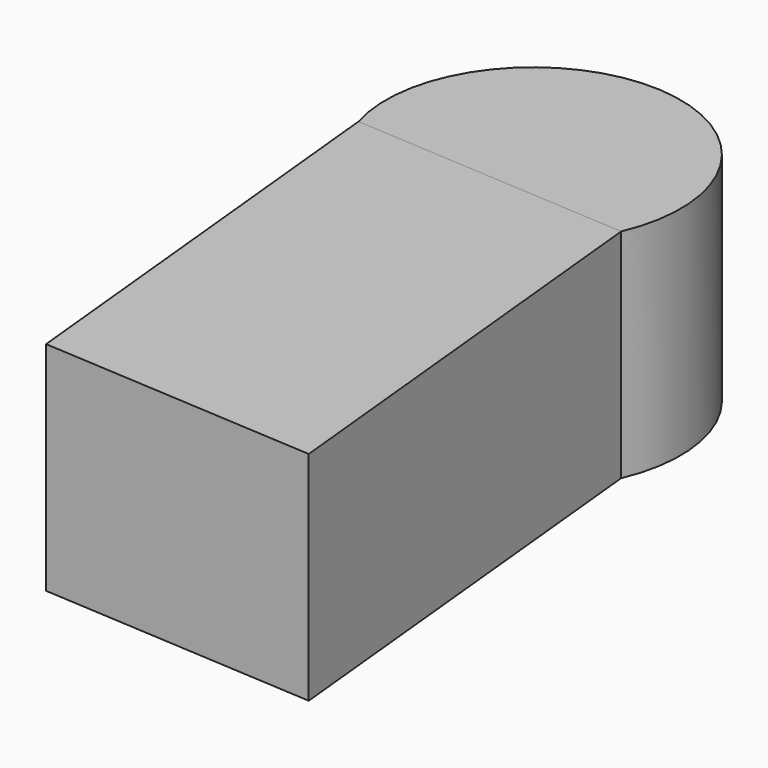
from build123d import *

# Parameters (mm, degrees)
F1_DEPTH  = 25.4
F1_FACE_W = 32.363278
F1_FACE_H = 25.4


with BuildPart() as f1:
    # F0 (on Top) → F1 (new body)
    with BuildSketch(Plane.XY):
        with BuildLine():
            ThreePointArc((-17.082881, 20.188859), (-31.813065, 44.272427), (-49.385052, 22.176685))
            Line((-49.385052, 22.176685), (-33.233967, 21.182772))
            Line((-33.233967, 21.182772), (-17.082881, 20.188859))
        make_face()
    extrude(amount=F1_DEPTH)


with BuildPart() as f2:
    # F2: sweep along a path in F0
    with BuildLine(Plane.XY) as f2_path:
        Line((-28.015925, -30.997664), (-33.233967, 21.182772))
    # F1_face (on face) → F2 (sweep)
    with BuildSketch(Plane(origin=(-33.233967, 21.182772, 12.7), x_dir=(0.998112, -0.061422, 0), z_dir=(-0.061422, -0.998112, 0))):
        Rectangle(F1_FACE_W, F1_FACE_H)
    sweep(path=f2_path.line)


solid = Compound([f1.part, f2.part])
